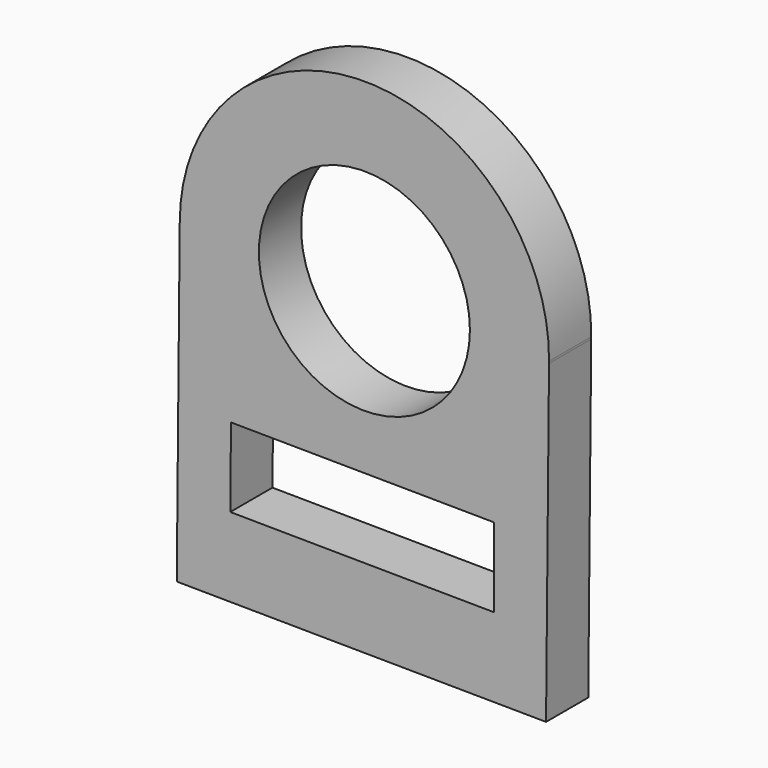
from build123d import *

# Parameters (mm, degrees)
F0_R     = 508
F1_DEPTH = 254


with BuildPart() as f1:
    # F0 (on Front) → F1 (new body)
    with BuildSketch(Plane.XZ):
        with BuildLine():
            Line((14.321755, 1523.932704), (0, 0))
            Line((0, 0), (1777.921488, -16.708714))
            Line((1777.921488, -16.708714), (1792.243243, 1507.22399))
            Line((1792.243243, 1507.22399), (1792.335678, 1517.059666))
            ThreePointArc((1792.335678, 1517.059666), (906.811505, 2414.407381), (14.376168, 1523.932704))
            Line((14.376168, 1523.932704), (14.321755, 1523.932704))
        make_face()
        Polygon((257.569223, 378.596217), (261.149661, 759.579393), (1527.513143, 747.661421), (1527.513143, 366.661421), align=None, mode=Mode.SUBTRACT)
        with Locations((903.374934, 1525.414023)):
            Circle(F0_R, mode=Mode.SUBTRACT)
    extrude(amount=F1_DEPTH)


solid = f1.part
